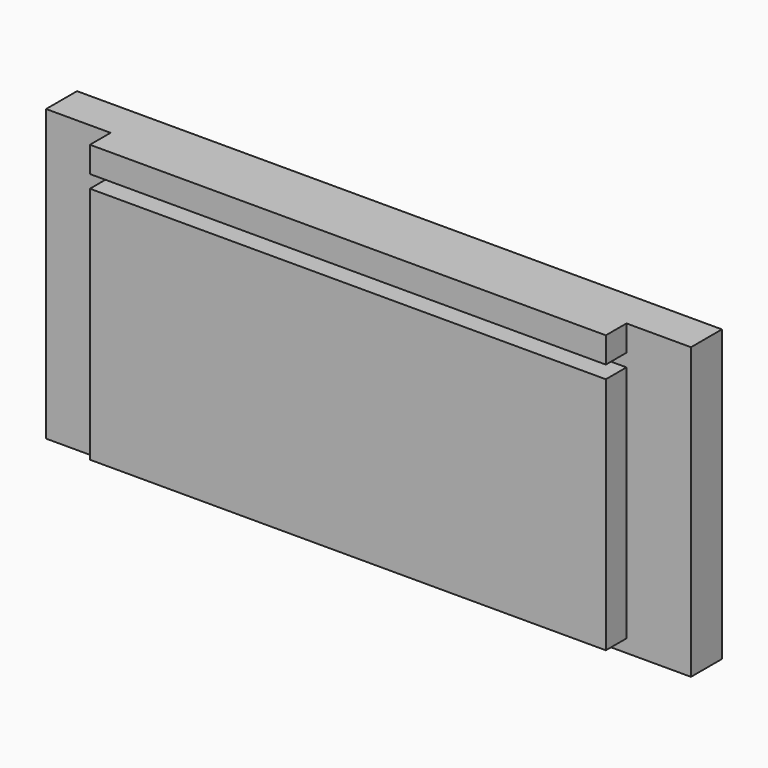
from build123d import *

# Parameters (mm, degrees)
F0_W     = 160
F0_H     = 4
F1_DEPTH = 12
F0_H_2   = 8
F0_H_3   = 74
F2_DEPTH = 20


with BuildPart() as f1:
    # F0 (on Front) → F1 (new body)
    with BuildSketch(Plane.XZ):
        with Locations((0, -43)):
            Rectangle(F0_W, F0_H)
        Polygon((100, -45), (100, 45), (80, 45), (80, 37), (80, 33), (80, -41), (80, -45), align=None)
        Polygon((-80, 37), (-80, 45), (-100, 45), (-100, -45), (-80, -45), (-80, -41), (-80, 33), align=None)
        with Locations((0, 35)):
            Rectangle(F0_W, F0_H)
    extrude(amount=F1_DEPTH)

    # F0 (on Front) → F2 (join)
    with BuildSketch(Plane.XZ):
        with Locations((0, 41)):
            Rectangle(F0_W, F0_H_2)
        with Locations((0, -4)):
            Rectangle(F0_W, F0_H_3)
    extrude(amount=F2_DEPTH)


solid = f1.part
